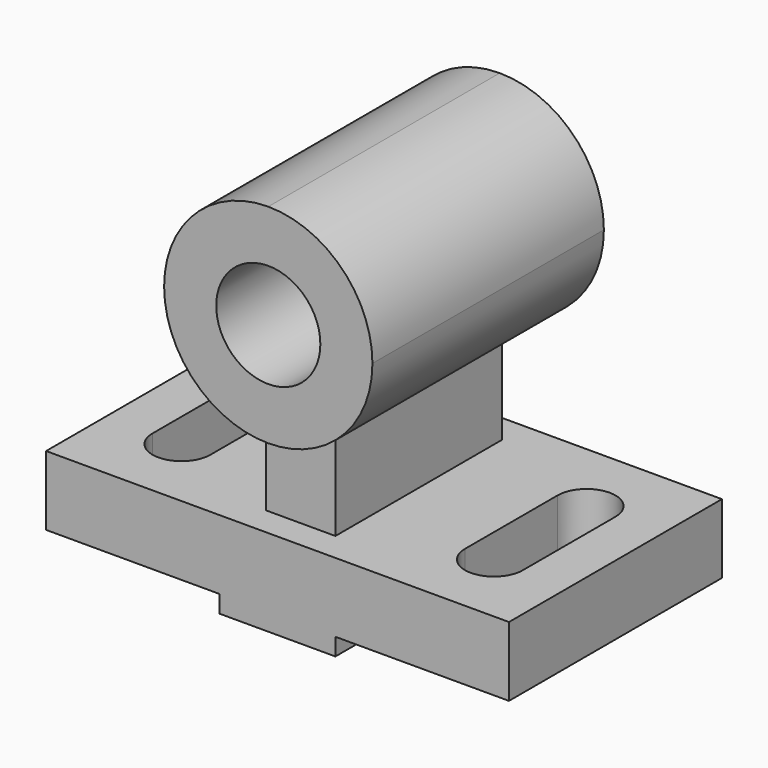
from build123d import *

# Parameters (mm, degrees)
F0_W      = 80
F0_H      = 46
F1_DEPTH  = 12
F3_DEPTH  = 3
F5_DEPTH  = 12
F6_W      = 36
F6_H      = 46
F6_H_2    = 2
F7_DEPTH  = 51
F8_R      = 9
F9_DEPTH  = 51
F11_DEPTH = 7
F13_DEPTH = 7


with BuildPart() as f1:
    # F0 (on Top) → F1 (new body)
    with BuildSketch(Plane.XY):
        with Locations((40, 23)):
            Rectangle(F0_W, F0_H)
    extrude(amount=F1_DEPTH)

    # F2 (on face) → F3 (join)
    with BuildSketch(Plane(origin=(0, 0, 0), x_dir=(1, 0, 0), z_dir=(0, 0, -1))):
        Polygon((30, -46), (40, -46), (50, -46), (50, 0), (30, 0), align=None)
    extrude(amount=F3_DEPTH)

    # F4 (on face) → F5 (cut)
    with BuildSketch(Plane.XY.offset(12)):
        with BuildLine():
            Line((8, 33), (8, 13))
            ThreePointArc((8, 13), (13, 8), (18, 13))
            Line((18, 13), (18, 33))
            ThreePointArc((18, 33), (13, 38), (8, 33))
        make_face()
        with BuildLine():
            ThreePointArc((72, 33), (67, 38), (62, 33))
            Line((62, 33), (62, 13))
            ThreePointArc((62, 13), (67, 8), (72, 13))
            Line((72, 13), (72, 33))
        make_face()
    extrude(amount=-F5_DEPTH, mode=Mode.SUBTRACT)

    # F6 (on face) → F7 (join)
    with BuildSketch(Plane.XY.offset(12)):
        with Locations((40, 23)):
            Rectangle(F6_W, F6_H)
        with Locations((40, -1)):
            Rectangle(F6_W, F6_H_2)
        with Locations((40, 47)):
            Rectangle(F6_W, F6_H_2)
    extrude(amount=F7_DEPTH)

    # F8 (on face) → F9 (cut)
    with BuildSketch(Plane.XZ.offset(2)):
        with BuildLine():
            Line((22, 63), (22, 45))
            ThreePointArc((22, 45), (27.2720779386, 57.7279220614), (40, 63))
            Line((40, 63), (22, 63))
        make_face()
        with BuildLine():
            ThreePointArc((40, 63), (52.7279220614, 57.7279220614), (58, 45))
            Line((58, 45), (58, 63))
            Line((58, 63), (40, 63))
        make_face()
        with BuildLine():
            ThreePointArc((58, 45), (54.6969384567, 34.6076951546), (46, 28.0294372515))
            Line((46, 28.0294372515), (46, 12))
            Line((46, 12), (58, 12))
            Line((58, 12), (58, 45))
        make_face()
        with BuildLine():
            Line((34, 12), (34, 28.0294372515))
            ThreePointArc((34, 28.0294372515), (25.3030615433, 34.6076951546), (22, 45))
            Line((22, 45), (22, 12))
            Line((22, 12), (34, 12))
        make_face()
        with Locations((40, 45)):
            Circle(F8_R)
    extrude(amount=-F9_DEPTH, mode=Mode.SUBTRACT)

    # F10 (on face) → F11 (cut)
    with BuildSketch(Plane.XZ.offset(2)):
        with BuildLine():
            Line((34, 12), (46, 12))
            Line((46, 12), (46, 28.0294372515))
            ThreePointArc((46, 28.0294372515), (40, 27), (34, 28.0294372515))
            Line((34, 28.0294372515), (34, 12))
        make_face()
    extrude(amount=-F11_DEPTH, mode=Mode.SUBTRACT)

    # F12 (on face) → F13 (cut)
    with BuildSketch(Plane(origin=(0, 48, 0), x_dir=(-1, 0, 0), z_dir=(0, 1, 0))):
        with BuildLine():
            Line((-46, 28.0294372515), (-46, 12))
            Line((-46, 12), (-34, 12))
            Line((-34, 12), (-34, 28.0294372515))
            ThreePointArc((-34, 28.0294372515), (-40, 27), (-46, 28.0294372515))
        make_face()
    extrude(amount=-F13_DEPTH, mode=Mode.SUBTRACT)


solid = f1.part
